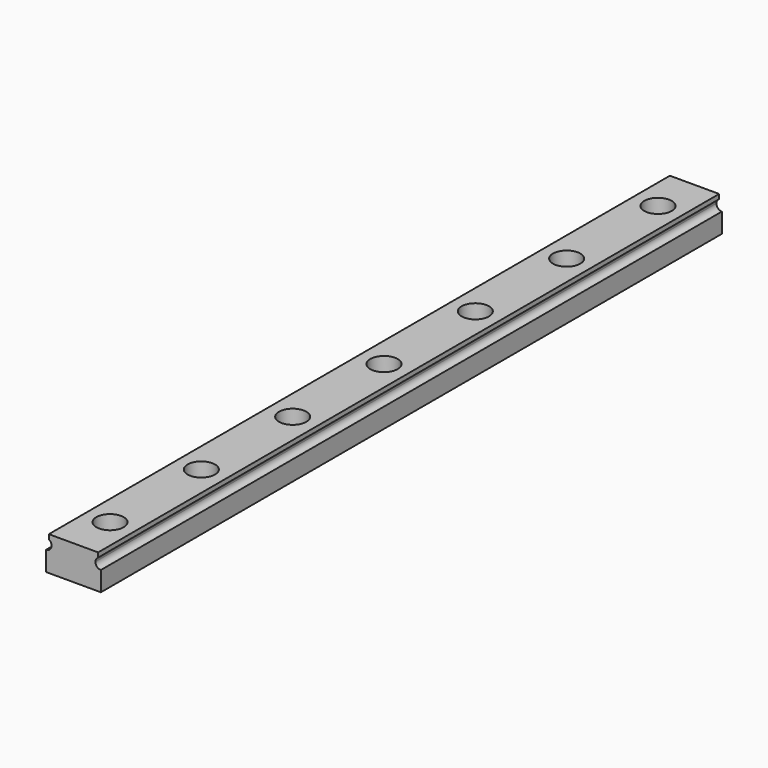
from build123d import *

# Parameters (mm, degrees)
F1_DEPTH = 170
F2_R     = 3
F2_R_2   = 2
F3_DEPTH = 5
F4_DEPTH = 7.501


with BuildPart() as f1:
    # F0 (on Front) → F1 (new body)
    with BuildSketch(Plane.XZ):
        with BuildLine():
            Line((-45.006957, 32.445839), (-55.806957, 32.445839))
            Line((-55.806957, 32.445839), (-55.806957, 31.445839))
            ThreePointArc((-55.806957, 31.445839), (-55.765201, 31.421253), (-55.724493, 31.394966))
            Line((-55.724493, 31.394966), (-55.206957, 31.075689))
            Line((-55.206957, 31.075689), (-55.311685, 30.905929))
            ThreePointArc((-55.311685, 30.905929), (-55.401245, 29.77366), (-56.406957, 29.245839))
            Line((-56.406957, 29.245839), (-56.406957, 24.945839))
            Line((-56.406957, 24.945839), (-44.406957, 24.945839))
            Line((-44.406957, 24.945839), (-44.406957, 29.245839))
            ThreePointArc((-44.406957, 29.245839), (-45.255625, 29.582815), (-45.606948, 30.425645))
            ThreePointArc((-45.606948, 30.425645), (-45.444735, 31.016774), (-45.006957, 31.445839))
            Line((-45.006957, 31.445839), (-45.006957, 32.445839))
        make_face()
        with BuildLine():
            ThreePointArc((-55.724493, 31.394966), (-55.484164, 31.179085), (-55.311685, 30.905929))
            Line((-55.311685, 30.905929), (-55.206957, 31.075689))
            Line((-55.206957, 31.075689), (-55.724493, 31.394966))
        make_face()
    extrude(amount=F1_DEPTH)

    # F2 (on face) → F3 (cut)
    with BuildSketch(Plane.XY.offset(32.445839)):
        with Locations((-50.406957, -160)):
            Circle(F2_R)
        with Locations((-50.406957, -160)):
            Circle(F2_R_2, mode=Mode.SUBTRACT)
        with Locations((-50.406957, -135)):
            Circle(F2_R)
        with Locations((-50.406957, -135)):
            Circle(F2_R_2, mode=Mode.SUBTRACT)
        with Locations((-50.406957, -110)):
            Circle(F2_R)
        with Locations((-50.406957, -110)):
            Circle(F2_R_2, mode=Mode.SUBTRACT)
        with Locations((-50.406957, -85)):
            Circle(F2_R)
        with Locations((-50.406957, -85)):
            Circle(F2_R_2, mode=Mode.SUBTRACT)
        with Locations((-50.406957, -60)):
            Circle(F2_R)
        with Locations((-50.406957, -60)):
            Circle(F2_R_2, mode=Mode.SUBTRACT)
        with Locations((-50.406957, -35)):
            Circle(F2_R)
        with Locations((-50.406957, -35)):
            Circle(F2_R_2, mode=Mode.SUBTRACT)
        with Locations((-50.406957, -10)):
            Circle(F2_R)
        with Locations((-50.406957, -10)):
            Circle(F2_R_2, mode=Mode.SUBTRACT)
    extrude(amount=-F3_DEPTH, mode=Mode.SUBTRACT)

    # F2 (on face) → F4 (cut, through all)
    with BuildSketch(Plane.XY.offset(32.445839)):
        with Locations((-50.406957, -160)):
            Circle(F2_R_2)
        with Locations((-50.406957, -135)):
            Circle(F2_R_2)
        with Locations((-50.406957, -110)):
            Circle(F2_R_2)
        with Locations((-50.406957, -85)):
            Circle(F2_R_2)
        with Locations((-50.406957, -60)):
            Circle(F2_R_2)
        with Locations((-50.406957, -35)):
            Circle(F2_R_2)
        with Locations((-50.406957, -10)):
            Circle(F2_R_2)
    extrude(amount=-F4_DEPTH, mode=Mode.SUBTRACT)


solid = f1.part
